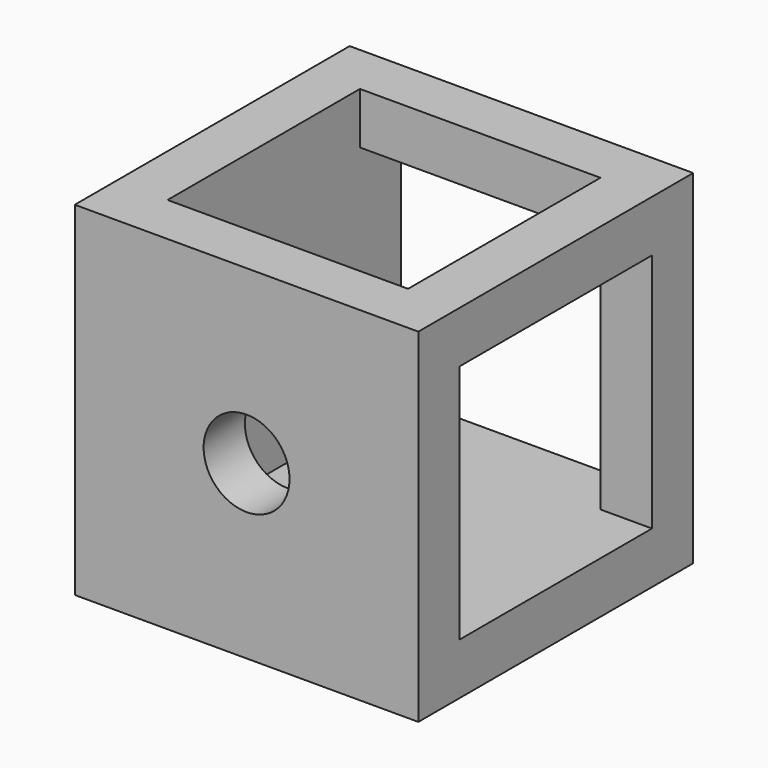
from build123d import *

# Parameters (mm, degrees)
SKETCH054_W     = 20
SKETCH054_H     = 20
PAD018_DEPTH    = 10
SKETCH055_R     = 2.5
HOLE019_DEPTH   = 25
SKETCH056_R     = 2.5
HOLE018_DEPTH   = 25
SKETCH057_R     = 2.5
HOLE020_DEPTH   = 25
SKETCH058_W     = 14
SKETCH058_H     = 14
POCKET020_DEPTH = 17
SKETCH059_W     = 14
SKETCH059_H     = 14
POCKET018_DEPTH = 17
SKETCH060_W     = 14
SKETCH060_H     = 14
POCKET019_DEPTH = 17


with BuildPart() as part:
    # Sketch054 → Pad018 (new body, symmetric)
    with BuildSketch(Plane.XZ):
        Rectangle(SKETCH054_W, SKETCH054_H)
    extrude(amount=PAD018_DEPTH, both=True)

    # Sketch055 (on Face1 of Pad018) → Hole019 (cut)
    with BuildSketch(Plane(origin=(0, 0, 10), x_dir=(-1, 0, 0), z_dir=(0, 0, 1))):
        Circle(SKETCH055_R)
    extrude(amount=-HOLE019_DEPTH, mode=Mode.SUBTRACT)

    # Sketch056 (on Face2 of Hole019) → Hole018 (cut)
    with BuildSketch(Plane(origin=(10, 0, 0), x_dir=(0, 0, 1), z_dir=(1, 0, 0))):
        Circle(SKETCH056_R)
    extrude(amount=-HOLE018_DEPTH, mode=Mode.SUBTRACT)

    # Sketch057 (on Face3 of Hole019) → Hole020 (cut)
    with BuildSketch(Plane(origin=(0, 10, 0), x_dir=(1, 0, 0), z_dir=(0, 1, 0))):
        Circle(SKETCH057_R)
    extrude(amount=-HOLE020_DEPTH, mode=Mode.SUBTRACT)

    # Sketch058 (on Face2 of Hole020) → Pocket020 (cut)
    with BuildSketch(Plane(origin=(10, 0, 0), x_dir=(0, 0, 1), z_dir=(1, 0, 0))):
        Rectangle(SKETCH058_W, SKETCH058_H)
    extrude(amount=-POCKET020_DEPTH, mode=Mode.SUBTRACT)

    # Sketch059 (on Face3 of Pocket020) → Pocket018 (cut)
    with BuildSketch(Plane(origin=(0, 10, 0), x_dir=(1, 0, 0), z_dir=(0, 1, 0))):
        Rectangle(SKETCH059_W, SKETCH059_H)
    extrude(amount=-POCKET018_DEPTH, mode=Mode.SUBTRACT)

    # Sketch060 (on Face1 of Pocket018) → Pocket019 (cut)
    with BuildSketch(Plane(origin=(0, 0, 10), x_dir=(-1, 0, 0), z_dir=(0, 0, 1))):
        Rectangle(SKETCH060_W, SKETCH060_H)
    extrude(amount=-POCKET019_DEPTH, mode=Mode.SUBTRACT)


solid = part.part
